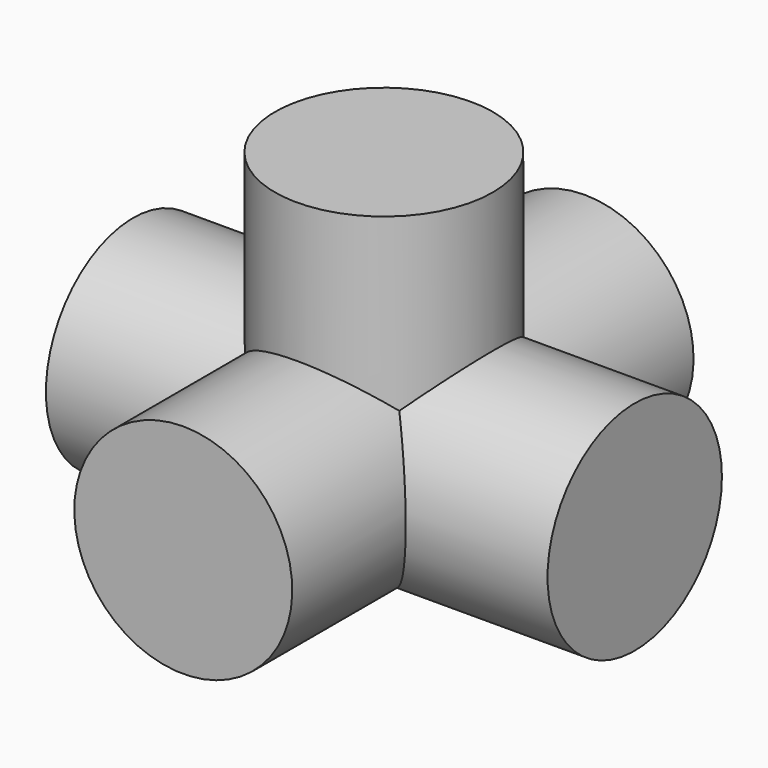
from build123d import *

# Parameters (mm, degrees)
CYLINDER038_R             = 13.9827
CYLINDER038_DEPTH         = 64.36
CYLINDER039_R             = 13.9827
CYLINDER039_DEPTH         = 64.36
CYLINDER040_R             = 13.9827
CYLINDER040_DEPTH         = 31.877
FUSION016_PLACEMENT_ANGLE = 90


with BuildPart() as cylinder038:
    # Cylinder038 → Cylinder038 (new body)
    with BuildSketch(Plane(origin=(0, 0, -32.18), x_dir=(0, 1, 0), z_dir=(0, 0, 1))):
        Circle(CYLINDER038_R)
    extrude(amount=CYLINDER038_DEPTH)


with BuildPart() as cylinder039:
    # Cylinder039 → Cylinder039 (new body)
    with BuildSketch(Plane.XZ.offset(-32.1818)):
        Circle(CYLINDER039_R)
    extrude(amount=CYLINDER039_DEPTH)


with BuildPart() as f_5_way002:
    # Cylinder040 → Cylinder040 (new body)
    with BuildSketch(Plane(origin=(0, 0, 0), x_dir=(0, 0, -1), z_dir=(1, 0, 0))):
        Circle(CYLINDER040_R)
    extrude(amount=CYLINDER040_DEPTH)

    # Fusion016: union Cylinder038, Cylinder039
    add(cylinder038.part)
    add(cylinder039.part)


with BuildPart() as f_5_way002_1:
    # Fusion016 placement: moved
    add(f_5_way002.part.moved(Location((0, 217, -18))).rotate(Axis((0, 217, -18), (0, -1, 0)), FUSION016_PLACEMENT_ANGLE))


solid = f_5_way002_1.part
